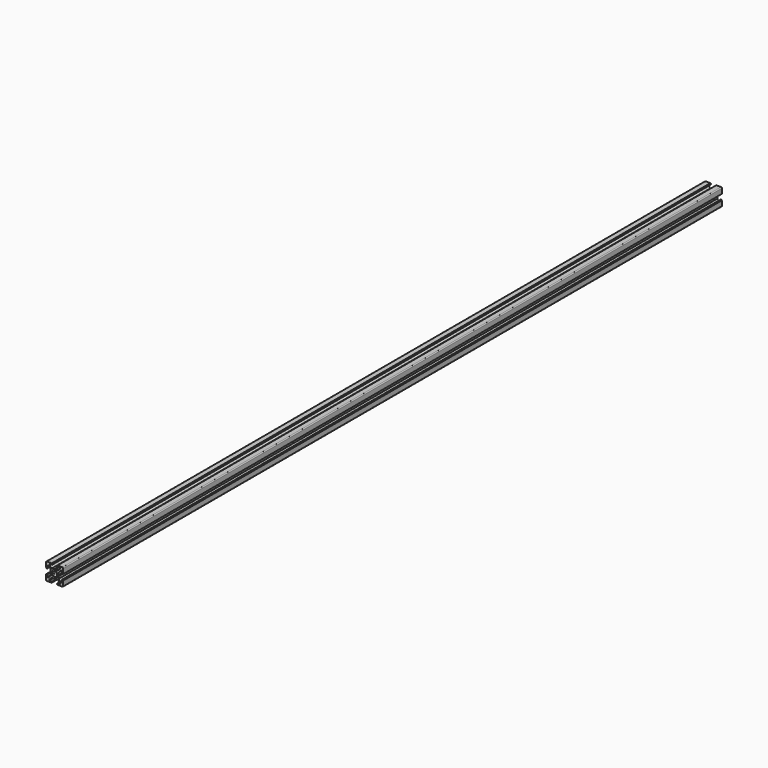
from build123d import *

# Parameters (mm, degrees)
PAD_DEPTH          = 960
POCKET_DEPTH       = 960
POLARPATTERN_COUNT = 4
POCKET001_DEPTH    = 960


with BuildPart() as part:
    # Sketch → Pad (new body)
    with BuildSketch(Plane(origin=(0, 0, 0), x_dir=(-1, 0, 0), z_dir=(0, 1, 0))):
        with BuildLine():
            Line((-9, 10), (9, 10))
            ThreePointArc((10, 9), (9.707107, 9.707107), (9, 10))
            Line((10, 9), (10, -9))
            ThreePointArc((9, -10), (9.707107, -9.707107), (10, -9))
            Line((9, -10), (-9, -10))
            ThreePointArc((-10, -9), (-9.707107, -9.707107), (-9, -10))
            Line((-10, -9), (-10, 9))
            ThreePointArc((-9, 10), (-9.707107, 9.707107), (-10, 9))
        make_face()
    extrude(amount=PAD_DEPTH)

    # Sketch001 (on Face10 of Pad) → Pocket (cut)
    with BuildSketch(Plane(origin=(0, 960, 0), x_dir=(1, 0, 0), z_dir=(0, 1, 0))):
        Polygon((-3.4, 10), (-3.4, 9.6), (-3, 9.6), (-3, 8.5), (-6, 8.5), (-6, 7), (-3.35, 4.7), (-0.65, 4.7), (0, 4.3), (0.65, 4.7), (3.35, 4.7), (6, 7), (6, 8.5), (3, 8.5), (3, 9.6), (3.4, 9.6), (3.4, 10), align=None)
    pocket = extrude(amount=-POCKET_DEPTH, mode=Mode.SUBTRACT)

    # PolarPattern: Pocket ×4 about axis
    polarpattern_axis = Axis((0, 960, 0), (0, 1, 0))
    for i in range(1, POLARPATTERN_COUNT):
        add(pocket.rotate(polarpattern_axis, i * 360 / POLARPATTERN_COUNT), mode=Mode.SUBTRACT)

    # Sketch002 (on Face4 of PolarPattern) → Pocket001 (cut)
    with BuildSketch(Plane(origin=(0, 960, 0), x_dir=(1, 0, 0), z_dir=(0, 1, 0))):
        with BuildLine():
            ThreePointArc((1.340499, 2.401159), (0, 2.75), (-1.340499, 2.401159))
            Line((-1.944544, 3.005204), (-1.340499, 2.401159))
            Line((-3.005204, 1.944544), (-1.944544, 3.005204))
            Line((-2.401159, 1.340499), (-3.005204, 1.944544))
            ThreePointArc((-2.401159, 1.340499), (-2.75, 0), (-2.401159, -1.340499))
            Line((-3.005204, -1.944544), (-2.401159, -1.340499))
            Line((-1.944544, -3.005204), (-3.005204, -1.944544))
            Line((-1.340499, -2.401159), (-1.944544, -3.005204))
            ThreePointArc((-1.340499, -2.401159), (0, -2.75), (1.340499, -2.401159))
            Line((1.944544, -3.005204), (1.340499, -2.401159))
            Line((3.005204, -1.944544), (1.944544, -3.005204))
            Line((2.401159, -1.340499), (3.005204, -1.944544))
            ThreePointArc((2.401159, -1.340499), (2.75, 0), (2.401159, 1.340499))
            Line((2.401159, 1.340499), (3.005204, 1.944544))
            Line((3.005204, 1.944544), (1.944544, 3.005204))
            Line((1.944544, 3.005204), (1.340499, 2.401159))
        make_face()
    extrude(amount=-POCKET001_DEPTH, mode=Mode.SUBTRACT)


solid = part.part
